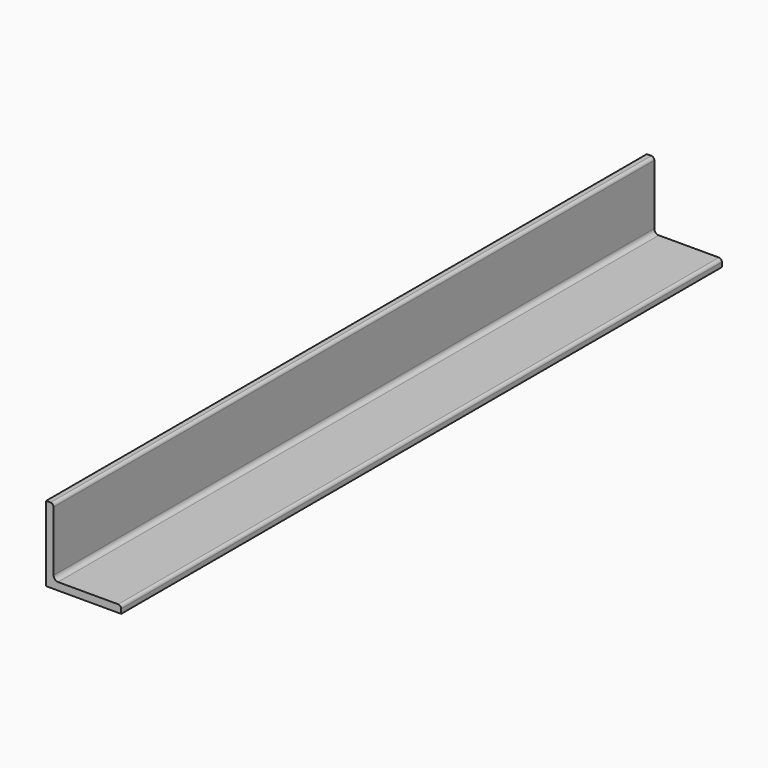
from build123d import *

# Parameters (mm, degrees)
F2_DEPTH = 500


with BuildPart() as f2:
    # F0 (on Front) → F2 (new body)
    with BuildSketch(Plane.XZ):
        with BuildLine():
            Line((0, 50), (0, 0))
            Line((0, 0), (50, 0))
            Line((50, 0), (50, 3))
            ThreePointArc((50, 3), (49.4142135624, 4.4142135624), (48, 5))
            Line((48, 5), (8, 5))
            ThreePointArc((8, 5), (5.8786796564, 5.8786796564), (5, 8))
            Line((5, 8), (5, 48))
            ThreePointArc((5, 48), (4.4142135624, 49.4142135624), (3, 50))
            Line((3, 50), (0, 50))
        make_face()
    extrude(amount=-F2_DEPTH)


solid = f2.part
